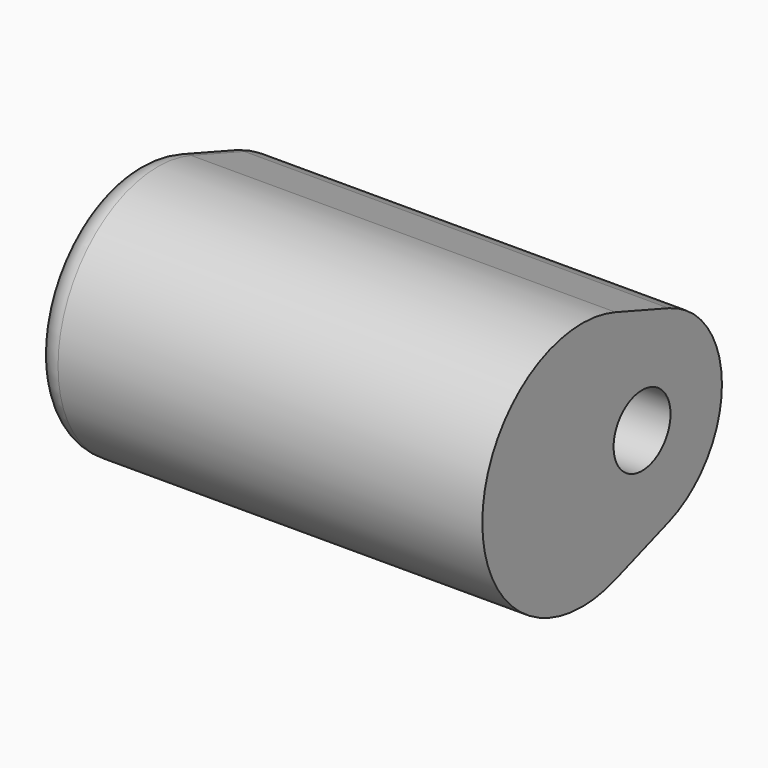
from build123d import *

# Parameters (mm, degrees)
F0_R     = 7.125
F1_DEPTH = 45
F2_R     = 5


with BuildPart() as f1:
    # F0 (on Right) → F1 (new body, symmetric)
    with BuildSketch(Plane.YZ):
        with BuildLine():
            Line((6.666667, 18.856181), (-6.666667, 23.570226))
            ThreePointArc((-6.666667, 23.570226), (-40, 0), (-6.666667, -23.570226))
            Line((-6.666667, -23.570226), (6.666667, -18.856181))
            ThreePointArc((6.666667, -18.856181), (20, 0), (6.666667, 18.856181))
        make_face()
        Circle(F0_R, mode=Mode.SUBTRACT)
    extrude(amount=F1_DEPTH, both=True)

    # F2
    f2_edges = [f1.edges().sort_by_distance(p)[0] for p in [
        (-45, -40, 0),
    ]]
    fillet(f2_edges, radius=F2_R)


solid = f1.part
